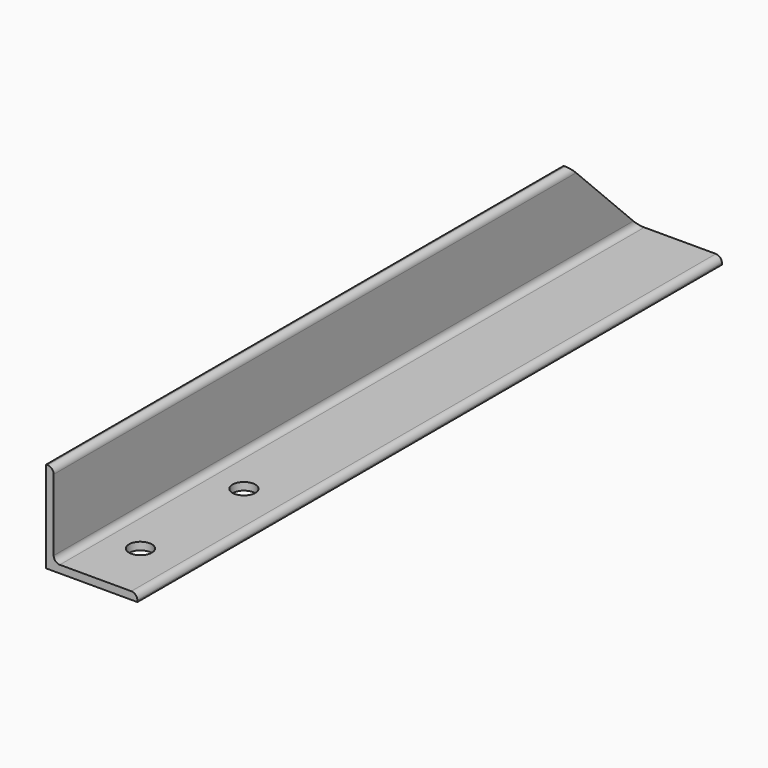
from build123d import *

# Parameters (mm, degrees)
F1_DEPTH = 304.8
F2_R     = 5.08
F4_DEPTH = 25.4
F5_R     = 9.525
F6_DEPTH = 25.4


with BuildPart() as f1:
    # F0 (on Front) → F1 (new body, symmetric)
    with BuildSketch(Plane.XZ):
        Polygon((0, 76.2), (0, 0), (76.2, 0), (76.2, 6.35), (6.35, 6.35), (6.35, 76.2), align=None)
    extrude(amount=F1_DEPTH, both=True)

    # F2
    f2_edges = [f1.edges().sort_by_distance(p)[0] for p in [
        (6.35, 0, 76.2),
        (6.35, 0, 6.35),
        (76.2, 0, 6.35),
    ]]
    fillet(f2_edges, radius=F2_R)

    # F3 (on face) → F4 (cut)
    with BuildSketch(Plane(origin=(0, 0, 0), x_dir=(0, -1, 0), z_dir=(-1, 0, 0))):
        Polygon((-304.8, 116.164517), (-304.8, 6.35), (-194.985483, 116.164517), align=None)
    extrude(amount=-F4_DEPTH, mode=Mode.SUBTRACT)

    # F5 (on face) → F6 (cut)
    with BuildSketch(Plane(origin=(0, 0, 0), x_dir=(1, 0, 0), z_dir=(0, 0, -1))):
        with Locations((38.1, 254)):
            Circle(F5_R)
        with Locations((38.1, 146.05)):
            Circle(F5_R)
    extrude(amount=-F6_DEPTH, mode=Mode.SUBTRACT)


solid = f1.part
